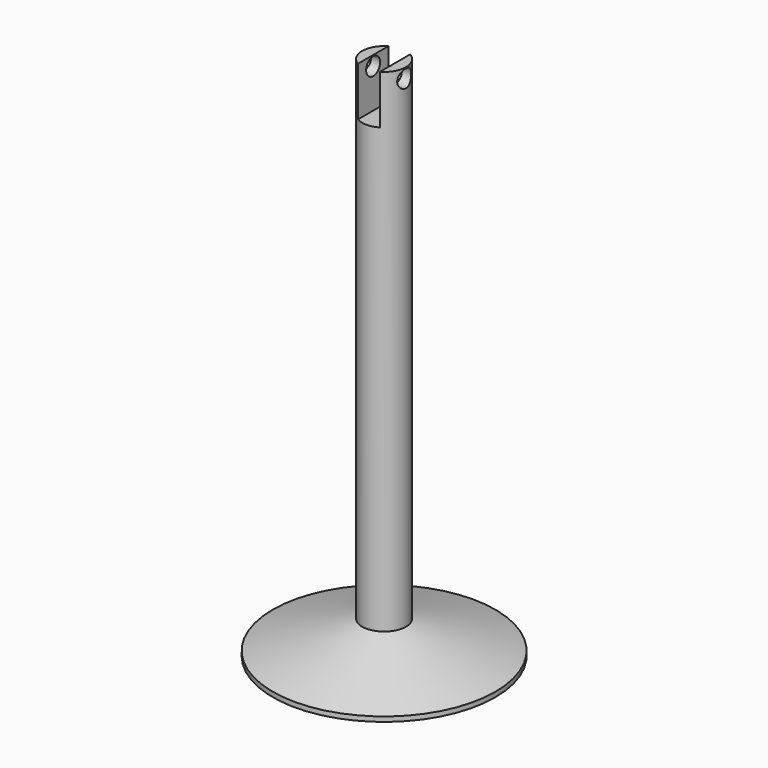
from build123d import *

# Parameters (mm, degrees)
F0_R     = 16.129
F1_DEPTH = 76.2
F4_W     = 3.175
F4_H     = 10.16
F5_DEPTH = 12.7
F6_R     = 1.27
F7_DEPTH = 12.7
F8_DEPTH = 2.54


with BuildPart() as f1:
    # F0 (on Top) → F1 (new body)
    with BuildSketch(Plane.XY):
        Circle(F0_R)
    extrude(amount=F1_DEPTH)

    # F2 (on Front) → F3 (revolve, cut)
    with BuildSketch(Plane.XZ):
        Polygon((-18.3443464339, 0), (-3.175, 4.7896225005), (-3.175, 89.8051410913), (-18.3443464339, 89.8051410913), align=None)
    revolve(axis=Axis((0, 0, 76.2), (0, 0, 1)), mode=Mode.SUBTRACT)

    # F4 (on Front) → F5 (cut, symmetric)
    with BuildSketch(Plane.XZ):
        with Locations((0, 76.7151042819)):
            Rectangle(F4_W, F4_H)
    extrude(amount=F5_DEPTH, both=True, mode=Mode.SUBTRACT)

    # F6 (on Right) → F7 (cut, symmetric)
    with BuildSketch(Plane.YZ):
        with Locations((0, 74.7672840953)):
            Circle(F6_R)
    extrude(amount=F7_DEPTH, both=True, mode=Mode.SUBTRACT)

    # F8 (cut): a face of the model
    f8_faces = [f1.faces().sort_by_distance(p)[0] for p in [
        (0, 0, 71.6351042819),
    ]]
    extrude(f8_faces, amount=-F8_DEPTH, mode=Mode.SUBTRACT)


solid = f1.part
